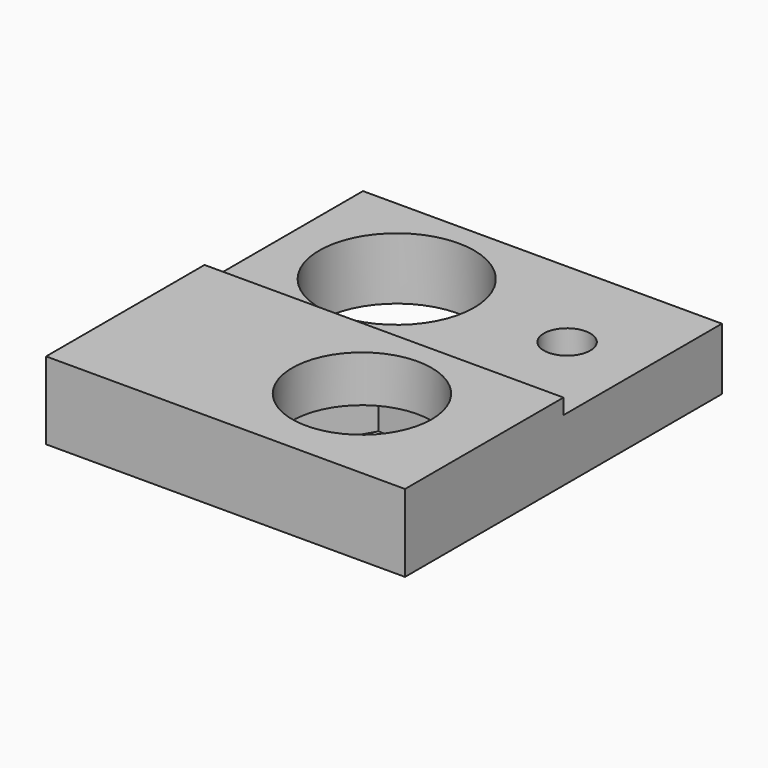
from build123d import *

# Parameters (mm, degrees)
F0_W     = 23.179245647
F0_H     = 25.5798394792
F0_R     = 5
F0_R_2   = 1.5
F0_R_3   = 4.5
F1_DEPTH = 5
F2_DEPTH = 2
F3_START = 1
F3_DEPTH = 4
F4_W     = 23.179245647
F4_H     = 12.7899197396
F4_R     = 5
F4_R_2   = 1.5
F5_DEPTH = 1


with BuildPart() as f1:
    # F0 (on Top) → F1 (new body)
    with BuildSketch(Plane.XY):
        with Locations((4.2594347615, -6.3512411434)):
            Rectangle(F0_W, F0_H)
        Polygon((2.1032405912, -12.3641875159), (4.8745218833, -7.5641875159), (10.4170844675, -7.5641875159), (13.1883657596, -12.3641875159), (10.4170844675, -17.1641875159), (4.8745218833, -17.1641875159), align=None, mode=Mode.SUBTRACT)
        Circle(F0_R, mode=Mode.SUBTRACT)
        with Locations((11, 0)):
            Circle(F0_R_2, mode=Mode.SUBTRACT)
        Polygon((10.4170844675, -7.5641875159), (4.8745218833, -7.5641875159), (2.1032405912, -12.3641875159), (4.8745218833, -17.1641875159), (10.4170844675, -17.1641875159), (13.1883657596, -12.3641875159), align=None)
        with Locations((7.6458031754, -12.3641875159)):
            Circle(F0_R_3, mode=Mode.SUBTRACT)
        with Locations((11, 0)):
            Circle(F0_R_2)
    extrude(amount=F1_DEPTH)

    # F0 (on Top) → F2 (cut)
    with BuildSketch(Plane.XY):
        Polygon((10.4170844675, -7.5641875159), (4.8745218833, -7.5641875159), (2.1032405912, -12.3641875159), (4.8745218833, -17.1641875159), (10.4170844675, -17.1641875159), (13.1883657596, -12.3641875159), align=None)
        with Locations((7.6458031754, -12.3641875159)):
            Circle(F0_R_3, mode=Mode.SUBTRACT)
    extrude(amount=F2_DEPTH, mode=Mode.SUBTRACT)

    # F0 (on Top) → F3 (cut)
    with BuildSketch(Plane.XY.offset(F3_START)):
        with Locations((11, 0)):
            Circle(F0_R_2)
    extrude(amount=F3_DEPTH, mode=Mode.SUBTRACT)

    # F4 (on face) → F5 (cut)
    with BuildSketch(Plane.XY.offset(5)):
        with Locations((4.2594347615, 0.0437187264)):
            Rectangle(F4_W, F4_H)
        Circle(F4_R, mode=Mode.SUBTRACT)
        with Locations((11, 0)):
            Circle(F4_R_2, mode=Mode.SUBTRACT)
        with Locations((4.2594347615, 0.0437187264)):
            Rectangle(F4_W, F4_H)
    extrude(amount=-F5_DEPTH, mode=Mode.SUBTRACT)


solid = f1.part
